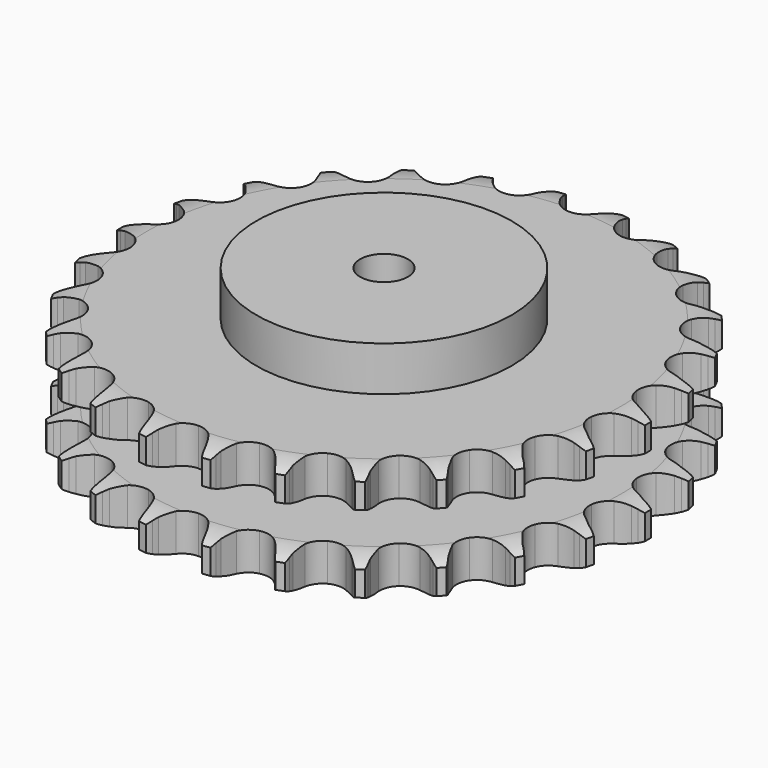
from build123d import *

# Parameters (mm, degrees)
PAD_DEPTH         = 72
SKETCH001_R       = 80
PAD001_DEPTH      = 100
SKETCH002_R       = 15
POCKET_DEPTH      = 0.001
POCKET_DEPTH_BACK = 100.001


with BuildPart() as part:
    # Sprocket → Pad (new body)
    with BuildSketch(Plane.XY):
        with BuildLine():
            ThreePointArc((-20.445476, 168.383648), (-17.818232, 165.113952), (-15.898674, 161.384524))
            Line((-15.898674, 161.384524), (-14.662693, 158.240615))
            ThreePointArc((-14.662693, 158.240615), (-12.697992, 154.107263), (-10.182292, 150.28419))
            ThreePointArc((-10.182292, 150.28419), (-5.681263, 146.57129), (0, 145.241578))
            ThreePointArc((0, 145.241578), (5.681263, 146.57129), (10.182292, 150.28419))
            ThreePointArc((10.182292, 150.28419), (12.697992, 154.107263), (14.662693, 158.240615))
            Line((14.662693, 158.240615), (15.898674, 161.384524))
            ThreePointArc((15.898674, 161.384524), (17.818232, 165.113952), (20.445476, 168.383648))
            ThreePointArc((20.445476, 168.383648), (22.213889, 164.580222), (23.185157, 160.499785))
            Line((23.185157, 160.499785), (23.632836, 157.151442))
            ThreePointArc((23.632836, 157.151442), (24.55127, 152.668015), (26.078948, 148.353986))
            ThreePointArc((26.078948, 148.353986), (29.56063, 143.67181), (34.758585, 141.021122))
            ThreePointArc((34.758585, 141.021122), (40.592981, 140.952579), (45.851774, 143.480422))
            Line((45.851774, 143.480422), (52.106079, 150.133418))
            ThreePointArc((52.106079, 150.133418), (53.047137, 151.536708), (54.058532, 152.890182))
            ThreePointArc((54.058532, 152.890182), (56.814821, 156.051858), (60.148213, 158.597802))
            ThreePointArc((60.148213, 158.597802), (60.955019, 154.481689), (60.921551, 150.287382))
            Line((60.921551, 150.287382), (60.554911, 146.929199))
            ThreePointArc((60.554911, 146.929199), (60.373702, 142.356256), (60.824574, 137.801988))
            ThreePointArc((60.824574, 137.801988), (63.084566, 132.422646), (67.497127, 128.60503))
            ThreePointArc((67.497127, 128.60503), (73.145583, 127.142217), (78.856517, 128.338094))
            Line((78.856517, 128.338094), (86.52125, 133.301013))
            ThreePointArc((86.52125, 133.301013), (87.770791, 134.438316), (89.076705, 135.510417))
            ThreePointArc((89.076705, 135.510417), (92.50954, 137.920598), (96.355353, 139.594829))
            ThreePointArc((96.355353, 139.594829), (96.153664, 135.405241), (95.117406, 131.340822))
            Line((95.117406, 131.340822), (93.957754, 128.167965))
            ThreePointArc((93.957754, 128.167965), (92.687434, 123.771269), (92.035297, 119.24144))
            ThreePointArc((92.035297, 119.24144), (92.942257, 113.47756), (96.312981, 108.714882))
            ThreePointArc((96.312981, 108.714882), (101.44723, 105.942812), (107.278406, 105.737223))
            Line((107.278406, 105.737223), (115.90812, 108.721637))
            ThreePointArc((115.90812, 108.721637), (117.393527, 109.526857), (118.918063, 110.25528))
            ThreePointArc((118.918063, 110.25528), (122.82794, 111.773894), (126.962671, 112.479112))
            ThreePointArc((126.962671, 112.479112), (125.764209, 108.459532), (123.785383, 104.761211))
            Line((123.785383, 104.761211), (121.900114, 101.958074))
            ThreePointArc((121.900114, 101.958074), (119.614509, 97.993146), (117.897262, 93.751012))
            ThreePointArc((117.897262, 93.751012), (117.398482, 87.937571), (119.531475, 82.50662))
            ThreePointArc((119.531475, 82.50662), (123.853132, 78.586395), (129.465664, 76.991288))
            Line((129.465664, 76.991288), (138.558832, 77.823755))
            ThreePointArc((138.558832, 77.823755), (140.193777, 78.250096), (141.848336, 78.592507))
            ThreePointArc((141.848336, 78.592507), (146.008028, 79.131298), (150.19138, 78.826517))
            ThreePointArc((150.19138, 78.826517), (148.065795, 75.21055), (145.259404, 72.09326))
            Line((145.259404, 72.09326), (142.758083, 69.822751))
            ThreePointArc((142.758083, 69.822751), (139.590024, 66.520018), (136.907468, 62.812116))
            ThreePointArc((136.907468, 62.812116), (135.031933, 57.286969), (135.803234, 51.503373))
            ThreePointArc((135.803234, 51.503373), (139.06114, 46.662823), (144.128849, 43.7709))
            Line((144.128849, 43.7709), (153.157007, 42.40304))
            ThreePointArc((153.157007, 42.40304), (154.846474, 42.425724), (156.534899, 42.362222))
            ThreePointArc((156.534899, 42.362222), (160.702659, 41.889878), (164.691512, 40.592812))
            ThreePointArc((164.691512, 40.592812), (161.762334, 37.590604), (158.291476, 35.23551))
            Line((158.291476, 35.23551), (155.31947, 33.629583))
            ThreePointArc((155.31947, 33.629583), (151.453074, 31.180988), (147.961109, 28.222809))
            ThreePointArc((147.961109, 28.222809), (144.81782, 23.307057), (144.182603, 17.506938))
            ThreePointArc((144.182603, 17.506938), (146.187421, 12.027376), (150.415788, 8.006706))
            Line((150.415788, 8.006706), (158.854255, 4.518013))
            ThreePointArc((158.854255, 4.518013), (160.500057, 4.135723), (162.124223, 3.67))
            ThreePointArc((162.124223, 3.67), (166.057835, 2.213971), (169.620371, 0))
            ThreePointArc((169.620371, 0), (166.057835, -2.213971), (162.124223, -3.67))
            Line((162.124223, -3.67), (158.854255, -4.518013))
            ThreePointArc((158.854255, -4.518013), (154.514222, -5.970168), (150.415788, -8.006706))
            ThreePointArc((150.415788, -8.006706), (146.187421, -12.027376), (144.182603, -17.506938))
            ThreePointArc((144.182603, -17.506938), (144.81782, -23.307057), (147.961109, -28.222809))
            Line((147.961109, -28.222809), (155.31947, -33.629583))
            ThreePointArc((155.31947, -33.629583), (156.82596, -34.394632), (158.291476, -35.23551))
            ThreePointArc((158.291476, -35.23551), (161.762334, -37.590604), (164.691512, -40.592812))
            ThreePointArc((164.691512, -40.592812), (160.702659, -41.889878), (156.534899, -42.362222))
            Line((156.534899, -42.362222), (153.157007, -42.40304))
            ThreePointArc((153.157007, -42.40304), (148.595564, -42.77436), (144.128849, -43.7709))
            ThreePointArc((144.128849, -43.7709), (139.06114, -46.662823), (135.803234, -51.503373))
            ThreePointArc((135.803234, -51.503373), (135.031933, -57.286969), (136.907468, -62.812116))
            Line((136.907468, -62.812116), (142.758083, -69.822751))
            ThreePointArc((142.758083, -69.822751), (144.037709, -70.926095), (145.259404, -72.09326))
            ThreePointArc((145.259404, -72.09326), (148.065795, -75.21055), (150.19138, -78.826517))
            ThreePointArc((150.19138, -78.826517), (146.008028, -79.131298), (141.848336, -78.592507))
            Line((141.848336, -78.592507), (138.558832, -77.823755))
            ThreePointArc((138.558832, -77.823755), (134.041073, -77.092661), (129.465664, -76.991288))
            ThreePointArc((129.465664, -76.991288), (123.853132, -78.586395), (119.531475, -82.50662))
            ThreePointArc((119.531475, -82.50662), (117.398482, -87.937571), (117.897262, -93.751012))
            Line((117.897262, -93.751012), (121.900114, -101.958074))
            ThreePointArc((121.900114, -101.958074), (122.878509, -103.335592), (123.785383, -104.761211))
            ThreePointArc((123.785383, -104.761211), (125.764209, -108.459532), (126.962671, -112.479112))
            ThreePointArc((126.962671, -112.479112), (122.82794, -111.773894), (118.918063, -110.25528))
            Line((118.918063, -110.25528), (115.90812, -108.721637))
            ThreePointArc((115.90812, -108.721637), (111.696602, -106.930616), (107.278406, -105.737223))
            ThreePointArc((107.278406, -105.737223), (101.44723, -105.942812), (96.312981, -108.714882))
            ThreePointArc((96.312981, -108.714882), (92.942257, -113.47756), (92.035297, -119.24144))
            Line((92.035297, -119.24144), (93.957754, -128.167965))
            ThreePointArc((93.957754, -128.167965), (94.578057, -129.739599), (95.117406, -131.340822))
            ThreePointArc((95.117406, -131.340822), (96.153664, -135.405241), (96.355353, -139.594829))
            ThreePointArc((96.355353, -139.594829), (92.50954, -137.920598), (89.076705, -135.510417))
            Line((89.076705, -135.510417), (86.52125, -133.301013))
            ThreePointArc((86.52125, -133.301013), (82.86073, -130.554153), (78.856517, -128.338094))
            ThreePointArc((78.856517, -128.338094), (73.145583, -127.142217), (67.497127, -128.60503))
            ThreePointArc((67.497127, -128.60503), (63.084566, -132.422646), (60.824574, -137.801988))
            Line((60.824574, -137.801988), (60.554911, -146.929199))
            ThreePointArc((60.554911, -146.929199), (60.781072, -148.603613), (60.921551, -150.287382))
            ThreePointArc((60.921551, -150.287382), (60.955019, -154.481689), (60.148213, -158.597802))
            ThreePointArc((60.148213, -158.597802), (56.814821, -156.051858), (54.058532, -152.890182))
            Line((54.058532, -152.890182), (52.106079, -150.133418))
            ThreePointArc((52.106079, -150.133418), (49.209294, -146.590358), (45.851774, -143.480422))
            ThreePointArc((45.851774, -143.480422), (40.592981, -140.952579), (34.758585, -141.021122))
            ThreePointArc((34.758585, -141.021122), (29.56063, -143.67181), (26.078948, -148.353986))
            Line((26.078948, -148.353986), (23.632836, -157.151442))
            ThreePointArc((23.632836, -157.151442), (23.451713, -158.831325), (23.185157, -160.499785))
            ThreePointArc((23.185157, -160.499785), (22.213889, -164.580222), (20.445476, -168.383648))
            ThreePointArc((20.445476, -168.383648), (17.818232, -165.113952), (15.898674, -161.384524))
            Line((15.898674, -161.384524), (14.662693, -158.240615))
            ThreePointArc((14.662693, -158.240615), (12.697992, -154.107263), (10.182292, -150.28419))
            ThreePointArc((10.182292, -150.28419), (5.681263, -146.57129), (0, -145.241578))
            ThreePointArc((0, -145.241578), (-5.681263, -146.57129), (-10.182292, -150.28419))
            Line((-10.182292, -150.28419), (-14.662693, -158.240615))
            ThreePointArc((-14.662693, -158.240615), (-15.240576, -159.828337), (-15.898674, -161.384524))
            ThreePointArc((-15.898674, -161.384524), (-17.818232, -165.113952), (-20.445476, -168.383648))
            ThreePointArc((-20.445476, -168.383648), (-22.213889, -164.580222), (-23.185157, -160.499785))
            Line((-23.185157, -160.499785), (-23.632836, -157.151442))
            ThreePointArc((-23.632836, -157.151442), (-24.55127, -152.668015), (-26.078948, -148.353986))
            ThreePointArc((-26.078948, -148.353986), (-29.56063, -143.67181), (-34.758585, -141.021122))
            ThreePointArc((-34.758585, -141.021122), (-40.592981, -140.952579), (-45.851774, -143.480422))
            Line((-45.851774, -143.480422), (-52.106079, -150.133418))
            ThreePointArc((-52.106079, -150.133418), (-53.047137, -151.536708), (-54.058532, -152.890182))
            ThreePointArc((-54.058532, -152.890182), (-56.814821, -156.051858), (-60.148213, -158.597802))
            ThreePointArc((-60.148213, -158.597802), (-60.955019, -154.481689), (-60.921551, -150.287382))
            Line((-60.921551, -150.287382), (-60.554911, -146.929199))
            ThreePointArc((-60.554911, -146.929199), (-60.373702, -142.356256), (-60.824574, -137.801988))
            ThreePointArc((-60.824574, -137.801988), (-63.084566, -132.422646), (-67.497127, -128.60503))
            ThreePointArc((-67.497127, -128.60503), (-73.145583, -127.142217), (-78.856517, -128.338094))
            Line((-78.856517, -128.338094), (-86.52125, -133.301013))
            ThreePointArc((-86.52125, -133.301013), (-87.770791, -134.438316), (-89.076705, -135.510417))
            ThreePointArc((-89.076705, -135.510417), (-92.50954, -137.920598), (-96.355353, -139.594829))
            ThreePointArc((-96.355353, -139.594829), (-96.153664, -135.405241), (-95.117406, -131.340822))
            Line((-95.117406, -131.340822), (-93.957754, -128.167965))
            ThreePointArc((-93.957754, -128.167965), (-92.687434, -123.771269), (-92.035297, -119.24144))
            ThreePointArc((-92.035297, -119.24144), (-92.942257, -113.47756), (-96.312981, -108.714882))
            ThreePointArc((-96.312981, -108.714882), (-101.44723, -105.942812), (-107.278406, -105.737223))
            Line((-107.278406, -105.737223), (-115.90812, -108.721637))
            ThreePointArc((-115.90812, -108.721637), (-117.393527, -109.526857), (-118.918063, -110.25528))
            ThreePointArc((-118.918063, -110.25528), (-122.82794, -111.773894), (-126.962671, -112.479112))
            ThreePointArc((-126.962671, -112.479112), (-125.764209, -108.459532), (-123.785383, -104.761211))
            Line((-123.785383, -104.761211), (-121.900114, -101.958074))
            ThreePointArc((-121.900114, -101.958074), (-119.614509, -97.993146), (-117.897262, -93.751012))
            ThreePointArc((-117.897262, -93.751012), (-117.398482, -87.937571), (-119.531475, -82.50662))
            ThreePointArc((-119.531475, -82.50662), (-123.853132, -78.586395), (-129.465664, -76.991288))
            Line((-129.465664, -76.991288), (-138.558832, -77.823755))
            ThreePointArc((-138.558832, -77.823755), (-140.193777, -78.250096), (-141.848336, -78.592507))
            ThreePointArc((-141.848336, -78.592507), (-146.008028, -79.131298), (-150.19138, -78.826517))
            ThreePointArc((-150.19138, -78.826517), (-148.065795, -75.21055), (-145.259404, -72.09326))
            Line((-145.259404, -72.09326), (-142.758083, -69.822751))
            ThreePointArc((-142.758083, -69.822751), (-139.590024, -66.520018), (-136.907468, -62.812116))
            ThreePointArc((-136.907468, -62.812116), (-135.031933, -57.286969), (-135.803234, -51.503373))
            ThreePointArc((-135.803234, -51.503373), (-139.06114, -46.662823), (-144.128849, -43.7709))
            Line((-144.128849, -43.7709), (-153.157007, -42.40304))
            ThreePointArc((-153.157007, -42.40304), (-154.846474, -42.425724), (-156.534899, -42.362222))
            ThreePointArc((-156.534899, -42.362222), (-160.702659, -41.889878), (-164.691512, -40.592812))
            ThreePointArc((-164.691512, -40.592812), (-161.762334, -37.590604), (-158.291476, -35.23551))
            Line((-158.291476, -35.23551), (-155.31947, -33.629583))
            ThreePointArc((-155.31947, -33.629583), (-151.453074, -31.180988), (-147.961109, -28.222809))
            ThreePointArc((-147.961109, -28.222809), (-144.81782, -23.307057), (-144.182603, -17.506938))
            ThreePointArc((-144.182603, -17.506938), (-146.187421, -12.027376), (-150.415788, -8.006706))
            Line((-150.415788, -8.006706), (-158.854255, -4.518013))
            ThreePointArc((-158.854255, -4.518013), (-160.500057, -4.135723), (-162.124223, -3.67))
            ThreePointArc((-162.124223, -3.67), (-166.057835, -2.213971), (-169.620371, 0))
            ThreePointArc((-169.620371, 0), (-166.057835, 2.213971), (-162.124223, 3.67))
            Line((-162.124223, 3.67), (-158.854255, 4.518013))
            ThreePointArc((-158.854255, 4.518013), (-154.514222, 5.970168), (-150.415788, 8.006706))
            ThreePointArc((-150.415788, 8.006706), (-146.187421, 12.027376), (-144.182603, 17.506938))
            ThreePointArc((-144.182603, 17.506938), (-144.81782, 23.307057), (-147.961109, 28.222809))
            Line((-147.961109, 28.222809), (-155.31947, 33.629583))
            ThreePointArc((-155.31947, 33.629583), (-156.82596, 34.394632), (-158.291476, 35.23551))
            ThreePointArc((-158.291476, 35.23551), (-161.762334, 37.590604), (-164.691512, 40.592812))
            ThreePointArc((-164.691512, 40.592812), (-160.702659, 41.889878), (-156.534899, 42.362222))
            Line((-156.534899, 42.362222), (-153.157007, 42.40304))
            ThreePointArc((-153.157007, 42.40304), (-148.595564, 42.77436), (-144.128849, 43.7709))
            ThreePointArc((-144.128849, 43.7709), (-139.06114, 46.662823), (-135.803234, 51.503373))
            ThreePointArc((-135.803234, 51.503373), (-135.031933, 57.286969), (-136.907468, 62.812116))
            Line((-136.907468, 62.812116), (-142.758083, 69.822751))
            ThreePointArc((-142.758083, 69.822751), (-144.037709, 70.926095), (-145.259404, 72.09326))
            ThreePointArc((-145.259404, 72.09326), (-148.065795, 75.21055), (-150.19138, 78.826517))
            ThreePointArc((-150.19138, 78.826517), (-146.008028, 79.131298), (-141.848336, 78.592507))
            Line((-141.848336, 78.592507), (-138.558832, 77.823755))
            ThreePointArc((-138.558832, 77.823755), (-134.041073, 77.092661), (-129.465664, 76.991288))
            ThreePointArc((-129.465664, 76.991288), (-123.853132, 78.586395), (-119.531475, 82.50662))
            ThreePointArc((-119.531475, 82.50662), (-117.398482, 87.937571), (-117.897262, 93.751012))
            Line((-117.897262, 93.751012), (-121.900114, 101.958074))
            ThreePointArc((-121.900114, 101.958074), (-122.878509, 103.335592), (-123.785383, 104.761211))
            ThreePointArc((-123.785383, 104.761211), (-125.764209, 108.459532), (-126.962671, 112.479112))
            ThreePointArc((-126.962671, 112.479112), (-122.82794, 111.773894), (-118.918063, 110.25528))
            Line((-118.918063, 110.25528), (-115.90812, 108.721637))
            ThreePointArc((-115.90812, 108.721637), (-111.696602, 106.930616), (-107.278406, 105.737223))
            ThreePointArc((-107.278406, 105.737223), (-101.44723, 105.942812), (-96.312981, 108.714882))
            ThreePointArc((-96.312981, 108.714882), (-92.942257, 113.47756), (-92.035297, 119.24144))
            Line((-92.035297, 119.24144), (-93.957754, 128.167965))
            ThreePointArc((-93.957754, 128.167965), (-94.578057, 129.739599), (-95.117406, 131.340822))
            ThreePointArc((-95.117406, 131.340822), (-96.153664, 135.405241), (-96.355353, 139.594829))
            ThreePointArc((-96.355353, 139.594829), (-92.50954, 137.920598), (-89.076705, 135.510417))
            Line((-89.076705, 135.510417), (-86.52125, 133.301013))
            ThreePointArc((-86.52125, 133.301013), (-82.86073, 130.554153), (-78.856517, 128.338094))
            ThreePointArc((-78.856517, 128.338094), (-73.145583, 127.142217), (-67.497127, 128.60503))
            ThreePointArc((-67.497127, 128.60503), (-63.084566, 132.422646), (-60.824574, 137.801988))
            Line((-60.824574, 137.801988), (-60.554911, 146.929199))
            ThreePointArc((-60.554911, 146.929199), (-60.781072, 148.603613), (-60.921551, 150.287382))
            ThreePointArc((-60.921551, 150.287382), (-60.955019, 154.481689), (-60.148213, 158.597802))
            ThreePointArc((-60.148213, 158.597802), (-56.814821, 156.051858), (-54.058532, 152.890182))
            Line((-54.058532, 152.890182), (-52.106079, 150.133418))
            ThreePointArc((-52.106079, 150.133418), (-49.209294, 146.590358), (-45.851774, 143.480422))
            ThreePointArc((-45.851774, 143.480422), (-40.592981, 140.952579), (-34.758585, 141.021122))
            ThreePointArc((-34.758585, 141.021122), (-29.56063, 143.67181), (-26.078948, 148.353986))
            Line((-26.078948, 148.353986), (-23.632836, 157.151442))
            ThreePointArc((-23.632836, 157.151442), (-23.451713, 158.831325), (-23.185157, 160.499785))
            ThreePointArc((-23.185157, 160.499785), (-22.213889, 164.580222), (-20.445476, 168.383648))
        make_face()
    extrude(amount=PAD_DEPTH)

    # Sketch → Groove (revolve, cut)
    with BuildSketch(Plane.XZ):
        with BuildLine():
            ThreePointArc((148.529437, 0), (157.247235, 1.013516), (165.5, 4))
            Line((165.5, 4), (165.5, 19.6))
            ThreePointArc((165.5, 19.6), (157.247235, 22.586484), (148.529437, 23.6))
            Line((80, 23.6), (148.529437, 23.6))
            Line((80, 48.4), (80, 23.6))
            Line((148.529437, 48.4), (80, 48.4))
            ThreePointArc((148.529437, 48.4), (157.247235, 49.413516), (165.5, 52.4))
            Line((165.5, 52.4), (165.5, 68))
            ThreePointArc((165.5, 68), (157.247235, 70.986484), (148.529437, 72))
            Line((148.529437, 72), (175.5, 72))
            Line((175.5, 72), (175.5, 0))
            Line((148.529437, 0), (175.5, 0))
        make_face()
    revolve(axis=Axis((0, 0, 0), (0, 0, 1)), mode=Mode.SUBTRACT)

    # Sketch001 → Pad001 (join)
    with BuildSketch(Plane.XY):
        Circle(SKETCH001_R)
    extrude(amount=PAD001_DEPTH)

    # Sketch002 → Pocket (cut, two sides)
    with BuildSketch(Plane.XY) as pocket_sk:
        Circle(SKETCH002_R)
    extrude(amount=-POCKET_DEPTH, mode=Mode.SUBTRACT)
    extrude(pocket_sk.sketch, amount=POCKET_DEPTH_BACK, mode=Mode.SUBTRACT)


solid = part.part
